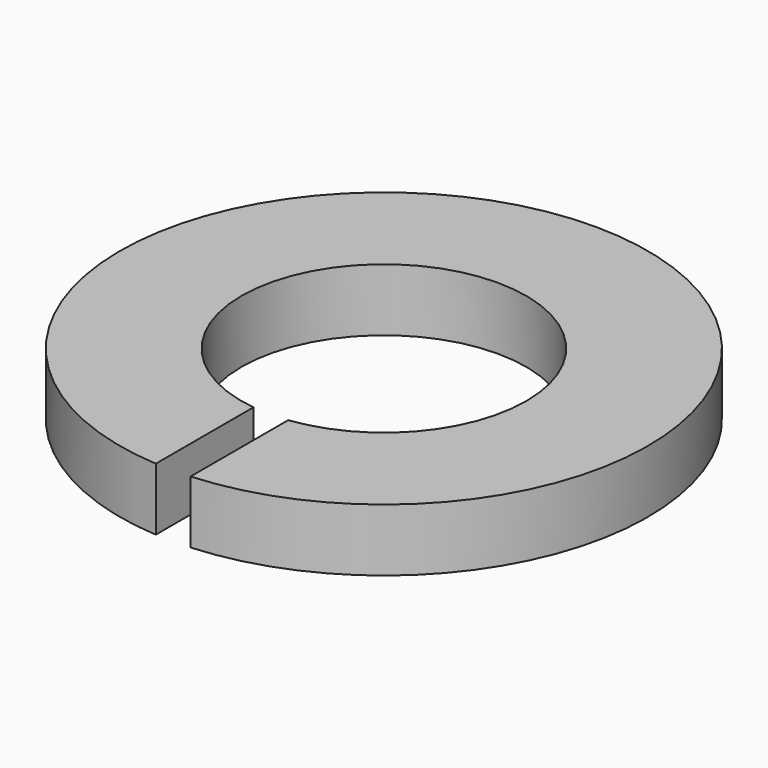
from build123d import *

# Parameters (mm, degrees)
PAD_DEPTH = 0.45


with BuildPart() as part:
    # Sketch → Pad (new body, symmetric)
    with BuildSketch(Plane.XY):
        with BuildLine():
            ThreePointArc((0.25, -2.034699), (0, 2.05), (-0.25, -2.034699))
            Line((-0.25, -3.791767), (-0.25, -2.034699))
            ThreePointArc((0.25, -3.791767), (0, 3.8), (-0.25, -3.791767))
            Line((0.25, -2.034699), (0.25, -3.791767))
        make_face()
    extrude(amount=PAD_DEPTH, both=True)


solid = part.part
